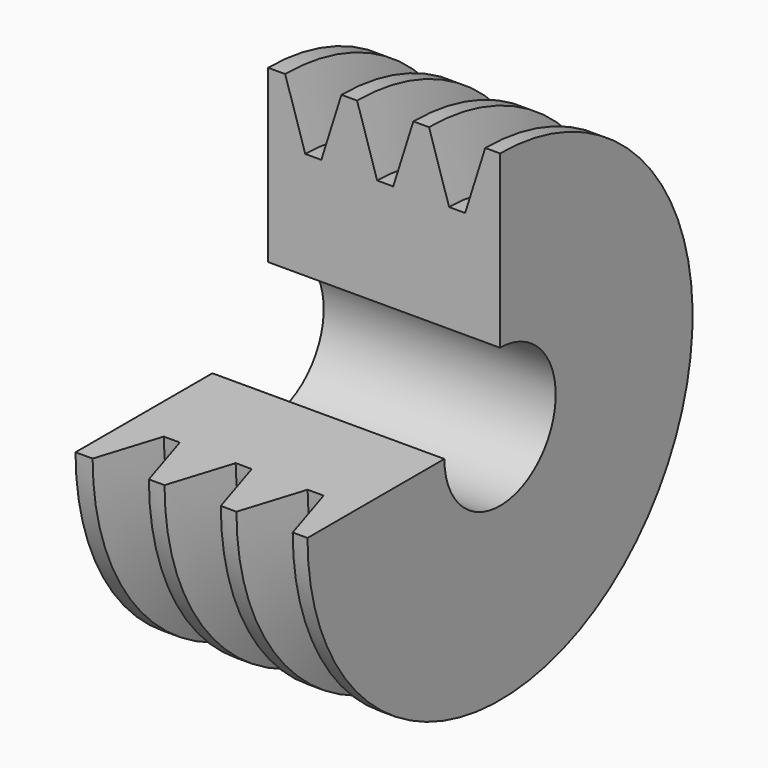
from build123d import *

# Parameters (mm, degrees)
F0_W     = 40
F0_H     = 3.3
F1_ANGLE = 270


with BuildPart() as f1:
    # F0 (on Front) → F1 (revolve)
    with BuildSketch(Plane.XZ):
        Polygon((63.284774, 35.914096), (60.584774, 35.914096), (57.116487, 24.914096), (54.353061, 24.914096), (50.884774, 35.914096), (47.934774, 35.914096), (47.934774, 9.714096), (87.934774, 9.714096), (87.934774, 35.914096), (85.384774, 35.914096), (81.916487, 24.914096), (79.153061, 24.914096), (75.684774, 35.914096), (72.984774, 35.914096), (69.516487, 24.914096), (66.753061, 24.914096), align=None)
        with Locations((67.934774, 8.064096)):
            Rectangle(F0_W, F0_H)
    revolve(axis=Axis((67.934774, 0, -5.585904), (-1, 0, 0)), revolution_arc=F1_ANGLE)


solid = f1.part
